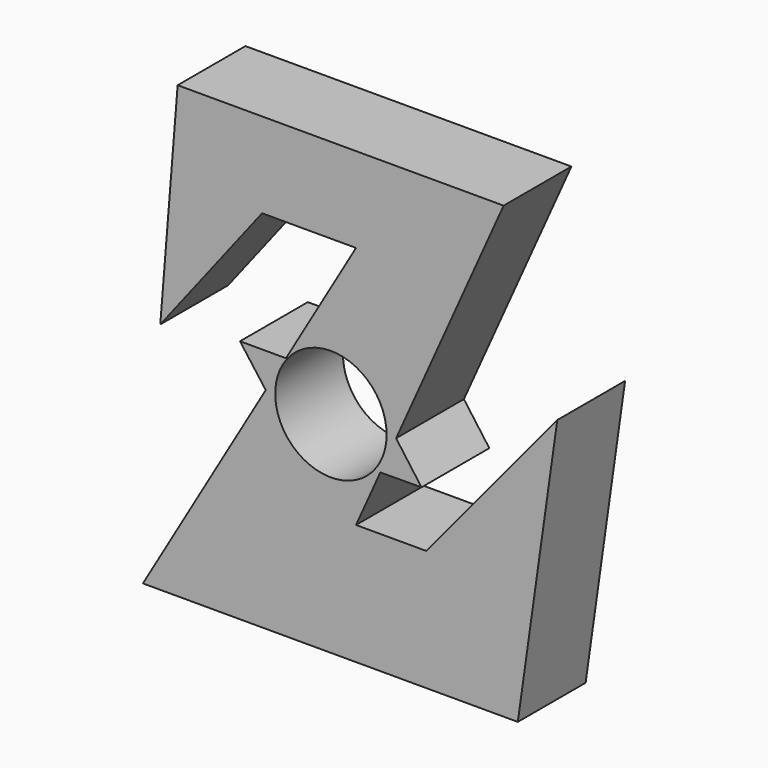
from build123d import *

# Parameters (mm, degrees)
F0_R     = 13.150468
F1_DEPTH = 20


with BuildPart() as f1:
    # F0 (on Front) → F1 (new body)
    with BuildSketch(Plane.XZ):
        Polygon((-42.10072, 56.351628), (-46.199024, 5.309162), (-22.168079, 36.232702), (0, 36.232702), (-16.53602, 7.937735), (-21.31239, -0.235164), (-50.297324, -49.831606), (38.188707, -49.831606), (47.503028, 15.927486), (16.579488, -21.32979), (0, -21.32979), (5.734761, -8.541578), (9.4597, -0.235164), (34.835551, 56.351628), align=None)
        with Locations((-5.926345, -0.235164)):
            Circle(F0_R, mode=Mode.SUBTRACT)
        Polygon((-21.31239, -0.235164), (-16.53602, 7.937735), (-27.384099, 7.937735), align=None)
        Polygon((15.461769, -8.47603), (9.4597, -0.235164), (5.734761, -8.541578), align=None)
    extrude(amount=F1_DEPTH)


solid = f1.part
